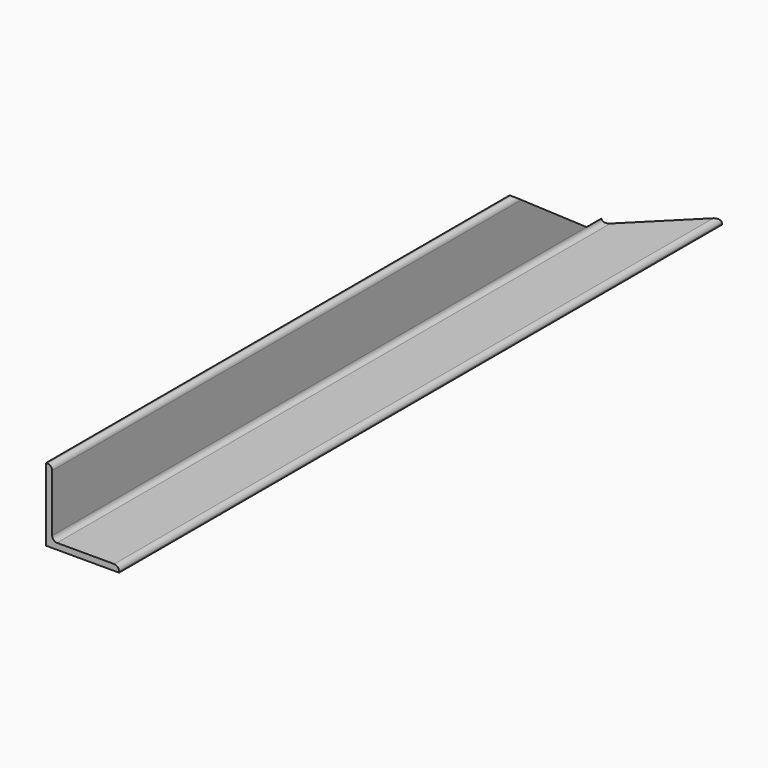
from build123d import *

# Parameters (mm, degrees)
F1_DEPTH = 393.7
F2_R     = 5.08
F4_DEPTH = 76.2
F6_DEPTH = 25.4


with BuildPart() as f1:
    # F0 (on Front) → F1 (new body, symmetric)
    with BuildSketch(Plane.XZ):
        Polygon((-38.1, -38.1), (38.1, -38.1), (38.1, -31.75), (-31.75, -31.75), (-31.75, 38.1), (-38.1, 38.1), align=None)
    extrude(amount=F1_DEPTH, both=True)

    # F2
    f2_edges = [f1.edges().sort_by_distance(p)[0] for p in [
        (-31.75, 0, 38.1),
        (-31.75, 0, -31.75),
        (38.1, 0, -31.75),
    ]]
    fillet(f2_edges, radius=F2_R)

    # F3 (on face) → F4 (cut)
    with BuildSketch(Plane(origin=(0, 0, -38.1), x_dir=(1, 0, 0), z_dir=(0, 0, -1))):
        Polygon((-38.1, -393.7), (38.1, -393.7), (-38.1, -317.5), align=None)
    extrude(amount=-F4_DEPTH, mode=Mode.SUBTRACT)

    # F5 (on face) → F6 (cut)
    with BuildSketch(Plane.YZ.offset(-31.75)):
        Polygon((200.3282578849, 46.1080149466), (323.85, -40.3828400151), (323.85, 46.1080149466), align=None)
    extrude(amount=-F6_DEPTH, mode=Mode.SUBTRACT)


solid = f1.part
